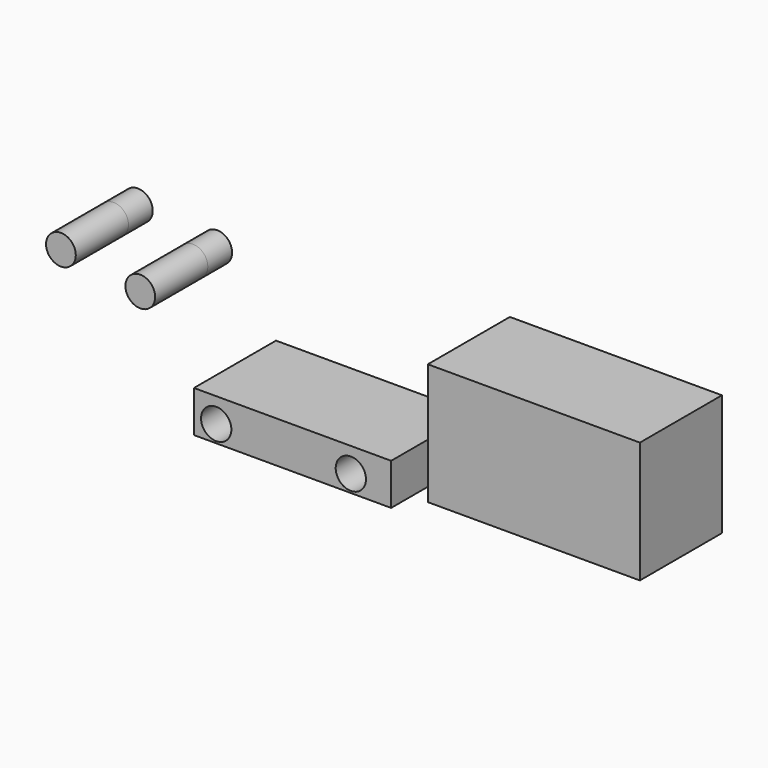
from build123d import *

# Parameters (mm, degrees)
F0_W     = 165.1
F0_H     = 34.742784
F0_R     = 12.6873
F0_W_2   = 177.546
F0_H_2   = 101.6
F1_DEPTH = 85.852
F2_R     = 12.446
F3_DEPTH = 80.518
F4_DEPTH = 25.4


with BuildPart() as f1:
    # F0 (on Front) → F1 (new body)
    with BuildSketch(Plane.XZ):
        with Locations((-74.984297, 3.105855)):
            Rectangle(F0_W, F0_H)
        with Locations((-138.901979, 0)):
            Circle(F0_R, mode=Mode.SUBTRACT)
        with Locations((-26.176445, 0)):
            Circle(F0_R, mode=Mode.SUBTRACT)
        with Locations((127.035229, 50.8)):
            Rectangle(F0_W_2, F0_H_2)
    extrude(amount=F1_DEPTH)


with BuildPart() as f3:
    # F2 (on Front) → F3 (new body)
    with BuildSketch(Plane.XZ):
        with Locations((-206.727702, 73.398108)):
            Circle(F2_R)
        with Locations((-273.17673, 82.607768)):
            Circle(F2_R)
    extrude(amount=F3_DEPTH)


with BuildPart() as f4:
    # F2 (on Front) → F4 (new body)
    with BuildSketch(Plane.XZ):
        with Locations((-206.727702, 73.398108)):
            Circle(F2_R)
        with Locations((-273.17673, 82.607768)):
            Circle(F2_R)
    extrude(amount=F4_DEPTH)


solid = Compound([f1.part, f3.part, f4.part])
